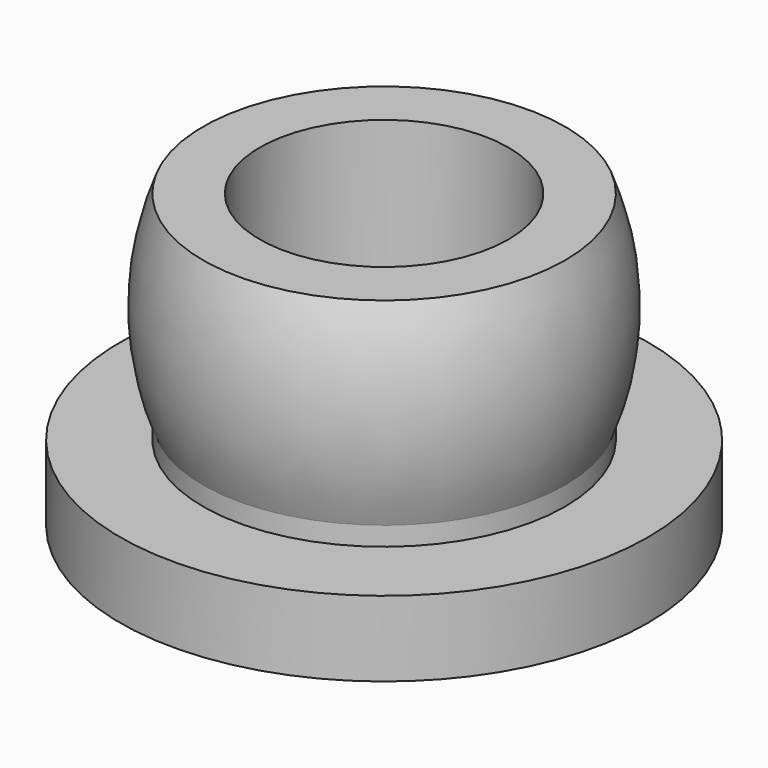
from build123d import *


with BuildPart() as f1:
    # F0 (on Front) → F1 (revolve)
    with BuildSketch(Plane.XZ):
        with BuildLine():
            Line((0, 2), (0, 0))
            Line((0, 0), (7, 0))
            Line((7, 0), (7, 2))
            Line((7, 2), (4.8, 2))
            Line((4.8, 2), (4.8, 2.5))
            ThreePointArc((4.8, 2.5), (5.3, 5.125), (4.8, 7.75))
            Line((4.8, 7.75), (3.3, 7.75))
            Line((3.3, 7.75), (3.3, 2))
            Line((3.3, 2), (0, 2))
        make_face()
    revolve(axis=Axis((0, 0, 1), (0, 0, 1)))


solid = f1.part
